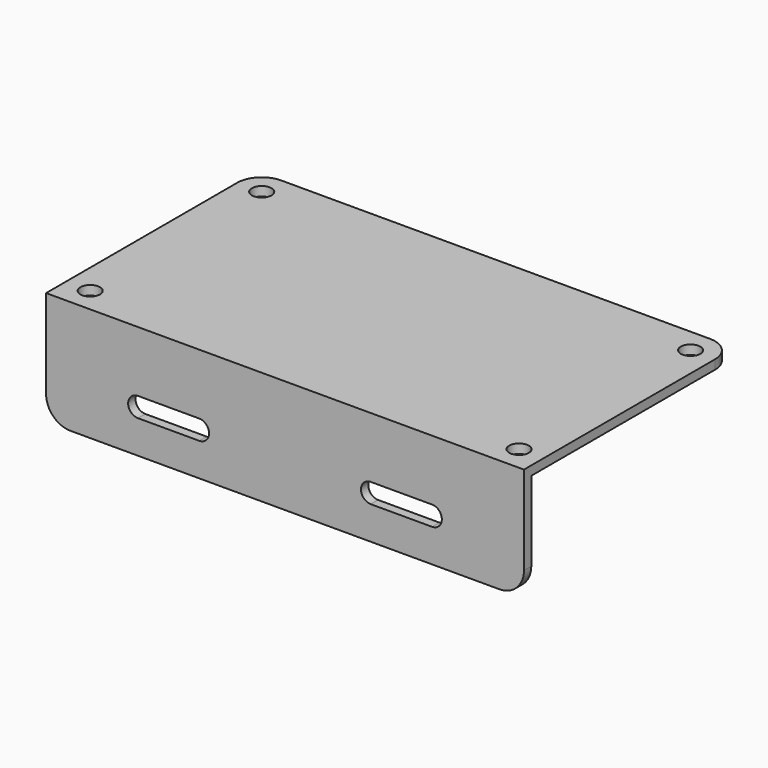
from build123d import *

# Parameters (mm, degrees)
SKETCH006_R  = 1.6
PAD007_DEPTH = 1.5
SKETCH_W     = 78
SKETCH_H     = 1.5
PAD008_DEPTH = 17
POCKET_DEPTH = 1.501
FILLET_R     = 4


with BuildPart() as part:
    # Sketch006 → Pad007 (new body)
    with BuildSketch(Plane.XY):
        with BuildLine():
            Line((-35, 21.5), (35, 21.5))
            ThreePointArc((39, 17.5), (37.828427, 20.328427), (35, 21.5))
            Line((39, -21.5), (39, 17.5))
            Line((-39, -21.5), (39, -21.5))
            Line((-39, 17.5), (-39, -21.5))
            ThreePointArc((-35, 21.5), (-37.828427, 20.328427), (-39, 17.5))
        make_face()
        with Locations((-35, -17.5)):
            Circle(SKETCH006_R, mode=Mode.SUBTRACT)
        with Locations((35, 17.5)):
            Circle(SKETCH006_R, mode=Mode.SUBTRACT)
        with Locations((35, -17.5)):
            Circle(SKETCH006_R, mode=Mode.SUBTRACT)
        with Locations((-35, 17.5)):
            Circle(SKETCH006_R, mode=Mode.SUBTRACT)
    extrude(amount=PAD007_DEPTH)

    # Sketch → Pad008 (join)
    with BuildSketch(Plane.XY):
        with Locations((0, -20.75)):
            Rectangle(SKETCH_W, SKETCH_H)
    extrude(amount=-PAD008_DEPTH)

    # Sketch012 (on Face11 of Pad008) → Pocket (cut, through all)
    with BuildSketch(Plane(origin=(0, -20, 0), x_dir=(-1, 0, 0), z_dir=(0, 1, 0))):
        with BuildLine():
            ThreePointArc((-24, -8.4), (-25.6, -10), (-24, -11.6))
            Line((-24, -11.6), (-14, -11.6))
            ThreePointArc((-14, -11.6), (-12.4, -10), (-14, -8.4))
            Line((-14, -8.4), (-24, -8.4))
        make_face()
        with BuildLine():
            ThreePointArc((24, -11.6), (25.6, -10), (24, -8.4))
            Line((14, -8.4), (24, -8.4))
            ThreePointArc((14, -8.4), (12.4, -10), (14, -11.6))
            Line((24, -11.6), (14, -11.6))
        make_face()
    extrude(amount=-POCKET_DEPTH, mode=Mode.SUBTRACT)

    # Fillet
    fillet_edges = [part.edges().sort_by_distance(p)[0] for p in [
        (-39, -20.75, -17),
        (39, -20.75, -17),
    ]]
    fillet(fillet_edges, radius=FILLET_R)


with BuildPart() as part_1:
    # Body001 placement: moved
    add(part.part.moved(Location((0, 0, 65.5))))


solid = part_1.part
